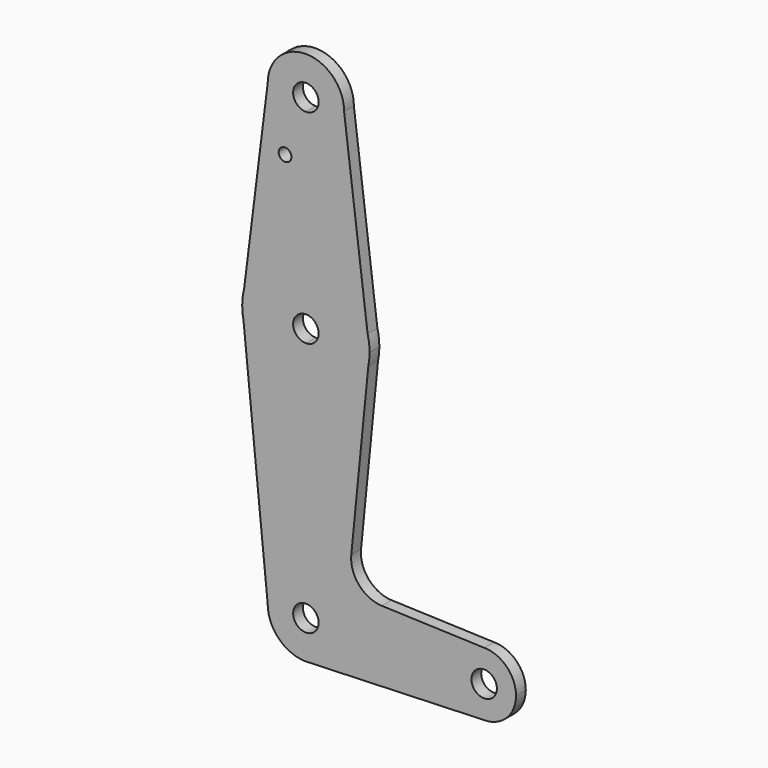
from build123d import *

# Parameters (mm, degrees)
F0_R     = 1.5875
F1_DEPTH = 3.048


with BuildPart() as f1:
    # F0 (on Front) → F1 (new body)
    with BuildSketch(Plane.XZ):
        with BuildLine():
            ThreePointArc((0, 104.775), (6.7351920908, 107.5648079092), (9.525, 114.3))
            ThreePointArc((9.525, 114.3), (0, 123.825), (-9.525, 114.3))
            ThreePointArc((-9.525, 114.3), (-6.7351920908, 107.5648079092), (0, 104.775))
        make_face()
        with BuildLine():
            ThreePointArc((3.175, 114.3), (2.2450640303, 112.0549359697), (0, 111.125))
            ThreePointArc((0, 111.125), (-2.2450640303, 116.5450640303), (3.175, 114.3))
        make_face(mode=Mode.SUBTRACT)
        with BuildLine():
            Line((15.3865384615, 67.4076923077), (9.525, 114.3))
            ThreePointArc((9.525, 114.3), (6.7351920908, 107.5648079092), (0, 104.775))
            Line((0, 104.775), (0, 79.375))
            ThreePointArc((0, 79.375), (9.7463072395, 76.0309664508), (15.3865384615, 67.4076923077))
        make_face()
        with BuildLine():
            ThreePointArc((0, 104.775), (-6.7351920908, 107.5648079092), (-9.525, 114.3))
            Line((-9.525, 114.3), (-15.3865384615, 67.4076923077))
            ThreePointArc((-15.3865384615, 67.4076923077), (-9.7463072395, 76.0309664508), (0, 79.375))
            Line((0, 79.375), (0, 104.775))
        make_face()
        with Locations((-5.1931694529, 100.0252)):
            Circle(F0_R, mode=Mode.SUBTRACT)
        with BuildLine():
            Line((15.875, 63.5), (15.3865384615, 67.4076923077))
            ThreePointArc((15.3865384615, 67.4076923077), (9.7463072395, 76.0309664508), (0, 79.375))
            Line((0, 79.375), (0, 66.675))
            ThreePointArc((0, 66.675), (2.2450640303, 65.7450640303), (3.175, 63.5))
            ThreePointArc((3.175, 63.5), (2.2450640303, 61.2549359697), (0, 60.325))
            Line((0, 60.325), (0, 47.625))
            ThreePointArc((0, 47.625), (10.0616155323, 51.22076884), (15.5652161214, 60.3791552277))
            Line((15.5652161214, 60.3791552277), (15.875, 63.5))
        make_face()
        with BuildLine():
            ThreePointArc((15.875, 63.5), (15.7524112928, 65.4690514116), (15.3865384615, 67.4076923077))
            Line((15.3865384615, 67.4076923077), (15.875, 63.5))
        make_face()
        with BuildLine():
            Line((-15.875, 63.5), (-15.3865384615, 67.4076923077))
            ThreePointArc((-15.3865384615, 67.4076923077), (-15.7524112928, 65.4690514116), (-15.875, 63.5))
        make_face()
        with BuildLine():
            ThreePointArc((0, 79.375), (-9.7463072395, 76.0309664508), (-15.3865384615, 67.4076923077))
            Line((-15.3865384615, 67.4076923077), (-15.875, 63.5))
            Line((-15.875, 63.5), (-15.5606435644, 60.3564356436))
            ThreePointArc((-15.5606435644, 60.3564356436), (-10.0526499203, 51.2134278751), (0, 47.625))
            Line((0, 47.625), (0, 60.325))
            ThreePointArc((0, 60.325), (-3.175, 63.5), (0, 66.675))
            Line((0, 66.675), (0, 79.375))
        make_face()
        with BuildLine():
            ThreePointArc((15.5652161214, 60.3791552277), (15.7973641936, 61.9319089516), (15.875, 63.5))
            Line((15.875, 63.5), (15.5652161214, 60.3791552277))
        make_face()
        with BuildLine():
            Line((-15.5606435644, 60.3564356436), (-15.875, 63.5))
            ThreePointArc((-15.875, 63.5), (-15.7962153946, 61.9203784605), (-15.5606435644, 60.3564356436))
        make_face()
        with BuildLine():
            Line((11.3167370079, 17.5788523406), (15.5652161214, 60.3791552277))
            ThreePointArc((15.5652161214, 60.3791552277), (10.0616155323, 51.22076884), (0, 47.625))
            Line((0, 47.625), (0, 9.525))
            ThreePointArc((0, 9.525), (6.7351920908, 6.7351920908), (9.525, 0))
            Line((9.525, 0), (36.5125, 0))
            ThreePointArc((36.5125, 0), (38.8373399243, 5.6126600757), (44.45, 7.9375))
            Line((44.45, 7.9375), (18.9443021901, 8.8484177789))
            ThreePointArc((18.9443021901, 8.8484177789), (13.2409930554, 11.562802358), (11.3167370079, 17.5788523406))
        make_face()
        with BuildLine():
            ThreePointArc((0, 47.625), (-10.0526499203, 51.2134278751), (-15.5606435644, 60.3564356436))
            Line((-15.5606435644, 60.3564356436), (-9.525, 0))
            ThreePointArc((-9.525, 0), (-6.7351920908, 6.7351920908), (0, 9.525))
            Line((0, 9.525), (0, 47.625))
        make_face()
        with BuildLine():
            ThreePointArc((0, 9.525), (-6.7351920908, 6.7351920908), (-9.525, 0))
            ThreePointArc((-9.525, 0), (-6.7351920908, -6.7351920908), (0, -9.525))
            Line((0, -9.525), (0.6794904459, -9.5007324841))
            ThreePointArc((0.6794904459, -9.5007324841), (6.9712901065, -6.4905114784), (9.525, 0))
            Line((9.525, 0), (3.175, 0))
            ThreePointArc((3.175, 0), (-2.2450640303, -2.2450640303), (0, 3.175))
            Line((0, 3.175), (0, 9.525))
        make_face()
        with BuildLine():
            Line((0.6794904459, -9.5007324841), (0, -9.525))
            ThreePointArc((0, -9.525), (0.3399618281, -9.5189311877), (0.6794904459, -9.5007324841))
        make_face()
        with BuildLine():
            Line((36.5125, 0), (9.525, 0))
            ThreePointArc((9.525, 0), (6.9712901065, -6.4905114784), (0.6794904459, -9.5007324841))
            Line((0.6794904459, -9.5007324841), (44.45, -7.9375))
            ThreePointArc((44.45, -7.9375), (38.8373399243, -5.6126600757), (36.5125, 0))
        make_face()
        with BuildLine():
            ThreePointArc((52.3875, 0), (50.0626600757, 5.6126600757), (44.45, 7.9375))
            ThreePointArc((44.45, 7.9375), (38.8373399243, 5.6126600757), (36.5125, 0))
            ThreePointArc((36.5125, 0), (38.8373399243, -5.6126600757), (44.45, -7.9375))
            ThreePointArc((44.45, -7.9375), (50.0626600757, -5.6126600757), (52.3875, 0))
        make_face()
        with BuildLine():
            ThreePointArc((47.625, 0), (44.45, -3.175), (41.275, 0))
            ThreePointArc((41.275, 0), (44.45, 3.175), (47.625, 0))
        make_face(mode=Mode.SUBTRACT)
        with BuildLine():
            ThreePointArc((9.525, 0), (6.7351920908, 6.7351920908), (0, 9.525))
            Line((0, 9.525), (0, 3.175))
            ThreePointArc((0, 3.175), (2.2450640303, 2.2450640303), (3.175, 0))
            Line((3.175, 0), (9.525, 0))
        make_face()
    extrude(amount=F1_DEPTH)


solid = f1.part
